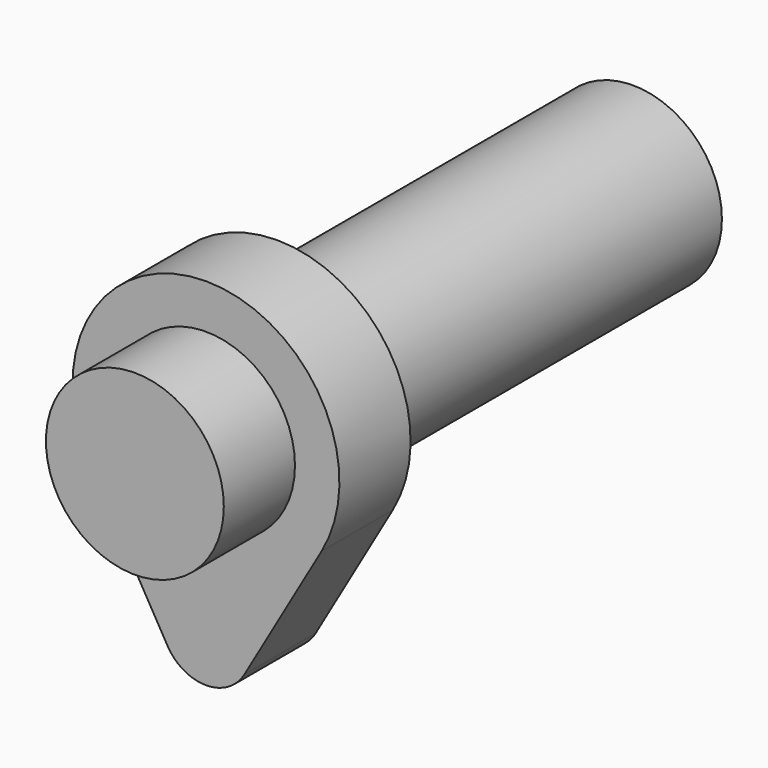
from build123d import *

# Parameters (mm, degrees)
F1_DEPTH = 12.7
F3_R     = 12.7
F4_DEPTH = 88.9


with BuildPart() as f1:
    # F0 (on Front) → F1 (new body)
    with BuildSketch(Plane.XZ):
        with BuildLine():
            Line((5.499261, -28.575), (16.497784, -9.525))
            ThreePointArc((16.497784, -9.525), (0, 19.05), (-16.497784, -9.525))
            Line((-16.497784, -9.525), (-5.499261, -28.575))
            ThreePointArc((-5.499261, -28.575), (0, -31.75), (5.499261, -28.575))
        make_face()
        with BuildLine():
            ThreePointArc((0, -12.7), (-8.980256, 8.980256), (12.7, 0))
            ThreePointArc((12.7, 0), (8.980256, -8.980256), (0, -12.7))
        make_face(mode=Mode.SUBTRACT)
    extrude(amount=F1_DEPTH)


with BuildPart() as f4:
    # F3 (on offset) → F4 (new body)
    with BuildSketch(Plane.XZ.offset(25.4)):
        Circle(F3_R)
    extrude(amount=-F4_DEPTH)


solid = Compound([f1.part, f4.part])
